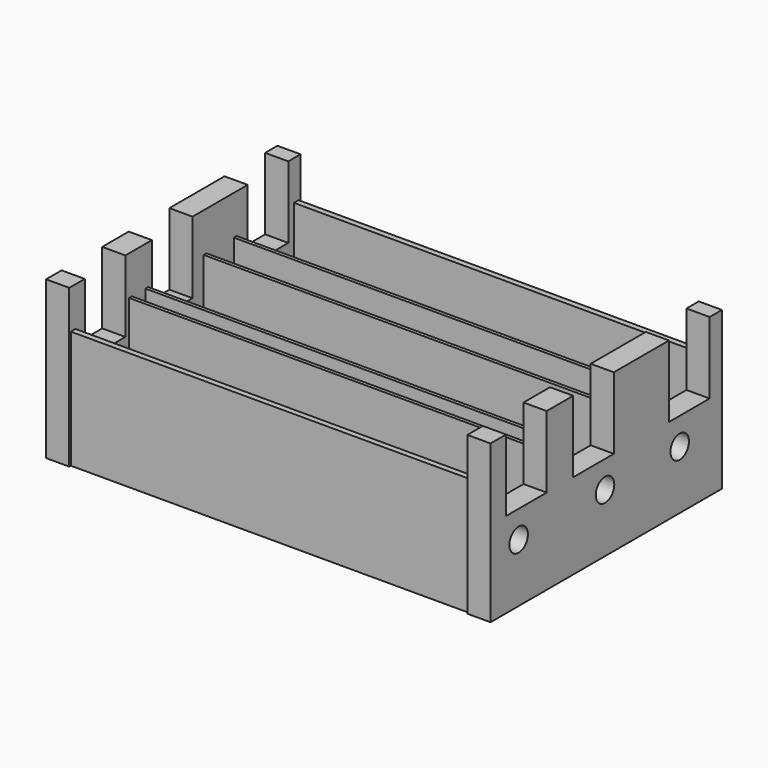
from build123d import *

# Parameters (mm, degrees)
F0_R     = 63.5
F1_DEPTH = 127
F2_W     = 31.75
F2_H     = 419.1
F2_H_2   = 31.75
F2_W_2   = 368.3
F2_H_3   = 196.85
F2_W_3   = 19.05
F2_W_4   = 92.075
F2_W_5   = 381
F2_W_6   = 187.1218
F2_W_7   = 393.7
F3_DEPTH = 2184.4


with BuildPart() as f1:
    # F0 (on Right) → F1 (new body)
    with BuildSketch(Plane.YZ):
        Polygon((-793.4452, 863.6), (-793.4452, 0), (793.4452, 0), (793.4452, 863.6), (709.1172, 863.6), (709.1172, 469.9), (430.4792, 469.9), (430.4792, 863.6), (52.0954, 863.6), (52.0954, 469.9), (-226.5426, 469.9), (-226.5426, 863.6), (-408.2796, 863.6), (-408.2796, 469.9), (-686.9176, 469.9), (-686.9176, 863.6), align=None)
        with Locations((-600.6338, 320.802)):
            Circle(F0_R, mode=Mode.SUBTRACT)
        with Locations((-8.3058, 320.802)):
            Circle(F0_R, mode=Mode.SUBTRACT)
        with Locations((503.8852, 320.802)):
            Circle(F0_R, mode=Mode.SUBTRACT)
    extrude(amount=F1_DEPTH)


with BuildPart() as f3:
    # F2 (on face) → F3 (new body)
    with BuildSketch(Plane.YZ):
        with Locations((-766.6736, 438.15)):
            Rectangle(F2_W, F2_H)
        with Locations((-766.6736, 212.725)):
            Rectangle(F2_W, F2_H_2)
        with Locations((-566.6486, 212.725)):
            Rectangle(F2_W_2, F2_H_2)
        with Locations((-766.6736, 98.425)):
            Rectangle(F2_W, F2_H_3)
        with Locations((-372.9736, 212.725)):
            Rectangle(F2_W_3, F2_H_2)
        with Locations((-372.9736, 438.15)):
            Rectangle(F2_W_3, F2_H)
        with Locations((-372.9736, 98.425)):
            Rectangle(F2_W_3, F2_H_3)
        with Locations((-317.4111, 212.725)):
            Rectangle(F2_W_4, F2_H_2)
        with Locations((-261.8486, 212.725)):
            Rectangle(F2_W_3, F2_H_2)
        with Locations((-261.8486, 438.15)):
            Rectangle(F2_W_3, F2_H)
        with Locations((-261.8486, 98.425)):
            Rectangle(F2_W_3, F2_H_3)
        with Locations((-61.8236, 212.725)):
            Rectangle(F2_W_5, F2_H_2)
        with Locations((138.2014, 212.725)):
            Rectangle(F2_W_3, F2_H_2)
        with Locations((138.2014, 438.15)):
            Rectangle(F2_W_3, F2_H)
        with Locations((138.2014, 98.425)):
            Rectangle(F2_W_3, F2_H_3)
        with Locations((241.2873, 212.725)):
            Rectangle(F2_W_6, F2_H_2)
        with Locations((344.3732, 212.725)):
            Rectangle(F2_W_3, F2_H_2)
        with Locations((344.3732, 438.15)):
            Rectangle(F2_W_3, F2_H)
        with Locations((344.3732, 98.425)):
            Rectangle(F2_W_3, F2_H_3)
        with Locations((550.7482, 212.725)):
            Rectangle(F2_W_7, F2_H_2)
        with Locations((763.4732, 212.725)):
            Rectangle(F2_W, F2_H_2)
        with Locations((763.4732, 438.15)):
            Rectangle(F2_W, F2_H)
        with Locations((763.4732, 98.425)):
            Rectangle(F2_W, F2_H_3)
    extrude(amount=-F3_DEPTH)


with BuildPart() as f5_1:
    # F5: instance of F1
    add(f1.part.mirror(Plane(origin=(-1092.2, -14.2171552654, 286.8559039669), x_dir=(0, 1, 0), z_dir=(1, 0, 0))))


solid = Compound([f1.part, f3.part, f5_1.part])
